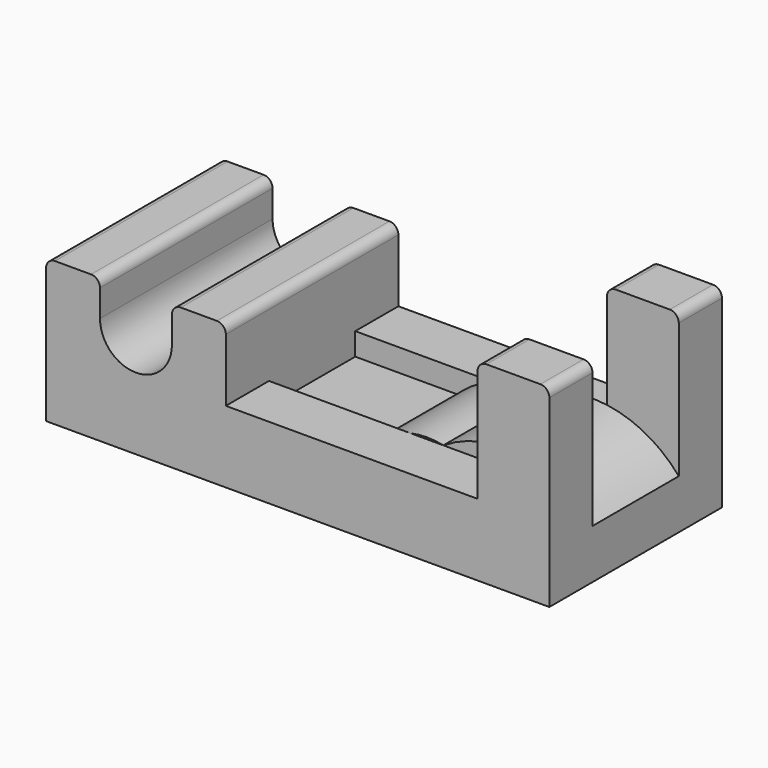
from build123d import *

# Parameters (mm, degrees)
F1_DEPTH = 6
F2_W     = 14
F2_H     = 6
F2_W_2   = 4
F3_DEPTH = 8
F5_DEPTH = 3
F6_R     = 0.5


with BuildPart() as f1:
    # F0 (on Front) → F1 (new body, symmetric)
    with BuildSketch(Plane.XZ):
        with BuildLine():
            Line((-28, 0), (0, 0))
            Line((0, 0), (0, 10.75))
            Line((0, 10.75), (-4, 10.75))
            Line((-4, 10.75), (-4, 4))
            Line((-4, 4), (-18, 4))
            Line((-18, 4), (-18, 8))
            Line((-18, 8), (-21, 8))
            Line((-21, 8), (-21, 6))
            ThreePointArc((-21, 6), (-23, 4), (-25, 6))
            Line((-25, 6), (-25, 8))
            Line((-25, 8), (-28, 8))
            Line((-28, 8), (-28, 0))
        make_face()
    extrude(amount=F1_DEPTH, both=True)

    # F2 (on face) → F3 (cut)
    with BuildSketch(Plane.XY.offset(10.75)):
        with Locations((-11, 0)):
            Rectangle(F2_W, F2_H)
        with Locations((-2, 0)):
            Rectangle(F2_W_2, F2_H)
    extrude(amount=-F3_DEPTH, mode=Mode.SUBTRACT)

    # F4 (on Front) → F5 (join, symmetric)
    with BuildSketch(Plane.XZ):
        with BuildLine():
            Line((-12.3, 2.75), (0, 2.75))
            ThreePointArc((0, 2.75), (-3.916003, 4.928739), (-8.3, 4))
            ThreePointArc((-8.3, 4), (-10.466716, 3.90849), (-12.3, 2.75))
        make_face()
    extrude(amount=F5_DEPTH, both=True)

    # F6
    f6_edges = [f1.edges().sort_by_distance(p)[0] for p in [
        (-21, 0, 8),
        (-25, 0, 8),
        (-28, 0, 8),
        (-18, 0, 8),
        (0, -4.5, 10.75),
        (0, 4.5, 10.75),
        (-4, 4.5, 10.75),
        (-4, -4.5, 10.75),
    ]]
    fillet(f6_edges, radius=F6_R)


solid = f1.part
